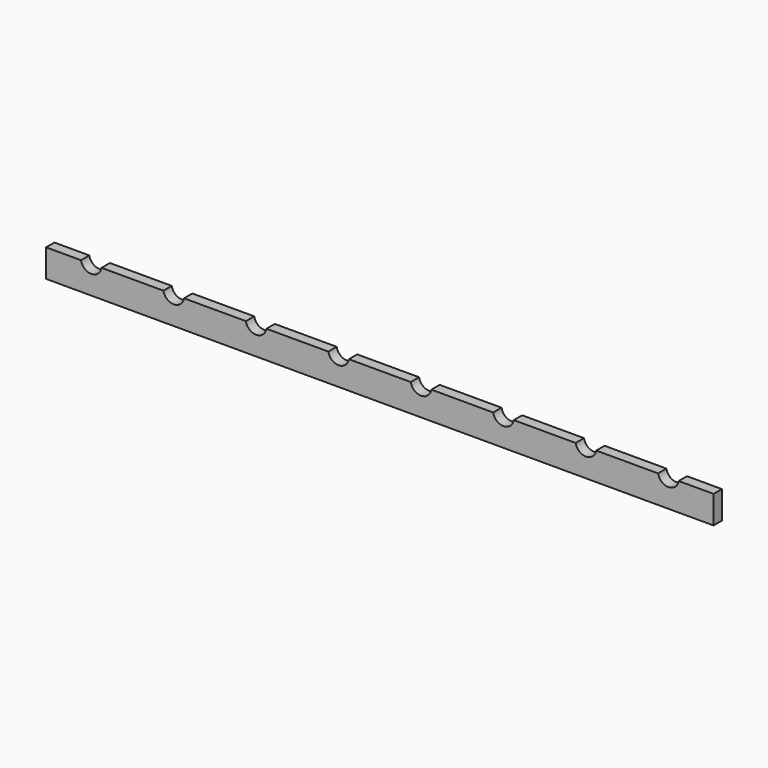
from build123d import *

# Parameters (mm, degrees)
F1_DEPTH = 19.05


with BuildPart() as f1:
    # F0 (on Front) → F1 (new body)
    with BuildSketch(Plane.XZ):
        with BuildLine():
            Line((-609.6, -25.4), (609.6, -25.4))
            Line((609.6, -25.4), (609.6, 25.4))
            Line((609.6, 25.4), (545.833553, 25.4))
            ThreePointArc((545.833553, 25.4), (527.05, 9.525), (508.266447, 25.4))
            Line((508.266447, 25.4), (395.247839, 25.4))
            ThreePointArc((395.247839, 25.4), (376.464286, 9.525), (357.680732, 25.4))
            Line((357.680732, 25.4), (244.662125, 25.4))
            ThreePointArc((244.662125, 25.4), (225.878571, 9.525), (207.095018, 25.4))
            Line((207.095018, 25.4), (94.07641, 25.4))
            ThreePointArc((94.07641, 25.4), (75.292857, 9.525), (56.509304, 25.4))
            Line((56.509304, 25.4), (-56.509304, 25.4))
            ThreePointArc((-56.509304, 25.4), (-75.292857, 9.525), (-94.07641, 25.4))
            Line((-94.07641, 25.4), (-207.095018, 25.4))
            ThreePointArc((-207.095018, 25.4), (-225.878571, 9.525), (-244.662125, 25.4))
            Line((-244.662125, 25.4), (-357.680732, 25.4))
            ThreePointArc((-357.680732, 25.4), (-376.464286, 9.525), (-395.247839, 25.4))
            Line((-395.247839, 25.4), (-508.266447, 25.4))
            ThreePointArc((-508.266447, 25.4), (-527.05, 9.525), (-545.833553, 25.4))
            Line((-545.833553, 25.4), (-609.6, 25.4))
            Line((-609.6, 25.4), (-609.6, -25.4))
        make_face()
    extrude(amount=F1_DEPTH)


solid = f1.part
